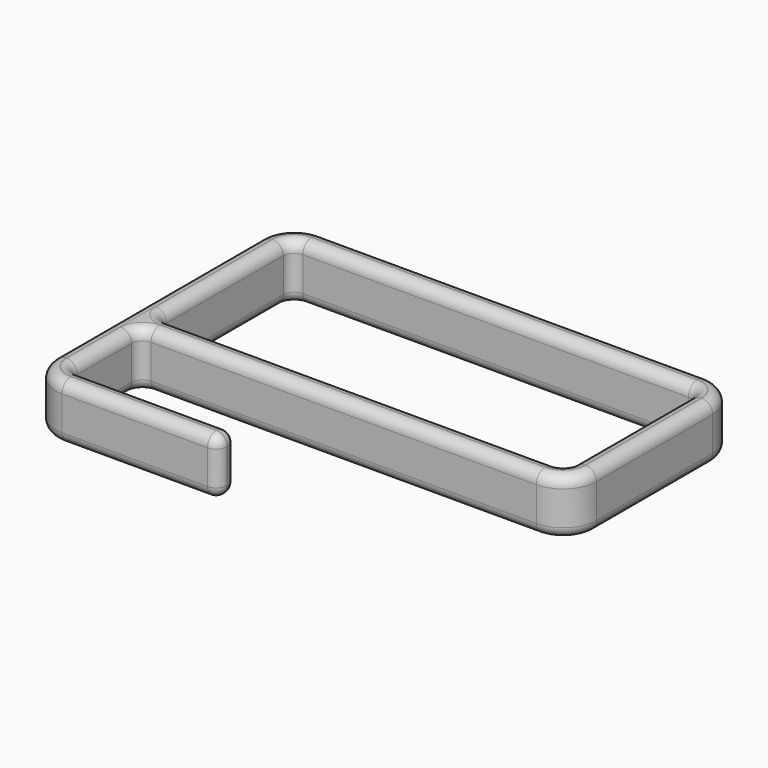
from build123d import *

# Parameters (mm, degrees)
SKETCH_W    = 36.5
SKETCH_H    = 15
PAD_DEPTH   = 5
FILLET_R    = 0.97
FILLET001_R = 3
FILLET002_R = 0.97


with BuildPart() as part:
    # Sketch → Pad (new body)
    with BuildSketch(Plane.XY):
        Polygon((-2, 17), (38.5, 17), (38.5, -2), (0, -2), (0, -10), (15, -10), (15, -12), (-2, -12), align=None)
        with Locations((18.25, 7.5)):
            Rectangle(SKETCH_W, SKETCH_H, mode=Mode.SUBTRACT)
    extrude(amount=PAD_DEPTH)

    # Fillet
    fillet_edges = [part.edges().sort_by_distance(p)[0] for p in [
        (0, 15, 2.5),
        (36.5, 15, 2.5),
        (0, 0, 2.5),
        (36.5, 0, 2.5),
        (0, -2, 2.5),
        (0, -10, 2.5),
        (15, -10, 2.5),
        (15, -12, 2.5),
    ]]
    fillet(fillet_edges, radius=FILLET_R)

    # Fillet001
    fillet001_edges = [part.edges().sort_by_distance(p)[0] for p in [
        (-2, -12, 2.5),
        (38.5, -2, 2.5),
        (38.5, 17, 2.5),
        (-2, 17, 2.5),
    ]]
    fillet(fillet001_edges, radius=FILLET001_R)

    # Fillet002
    fillet002_edges = [part.edges().sort_by_distance(p)[0] for p in [
        (18.25, 0, 5),
        (0.284106, 0.284106, 5),
        (0, 7.5, 5),
        (0.284106, 14.715894, 5),
        (18.25, 15, 5),
        (36.215894, 14.715894, 5),
        (36.5, 7.5, 5),
        (36.215894, 0.284106, 5),
        (18.25, 15, 0),
        (0.284106, 14.715894, 0),
        (36.215894, 14.715894, 0),
        (36.5, 7.5, 0),
        (0, 7.5, 0),
        (0.284106, 0.284106, 0),
        (18.25, 0, 0),
        (36.215894, 0.284106, 0),
        (38.5, 7.5, 0),
        (-2, 2.5, 5),
    ]]
    fillet(fillet002_edges, radius=FILLET002_R)


solid = part.part
